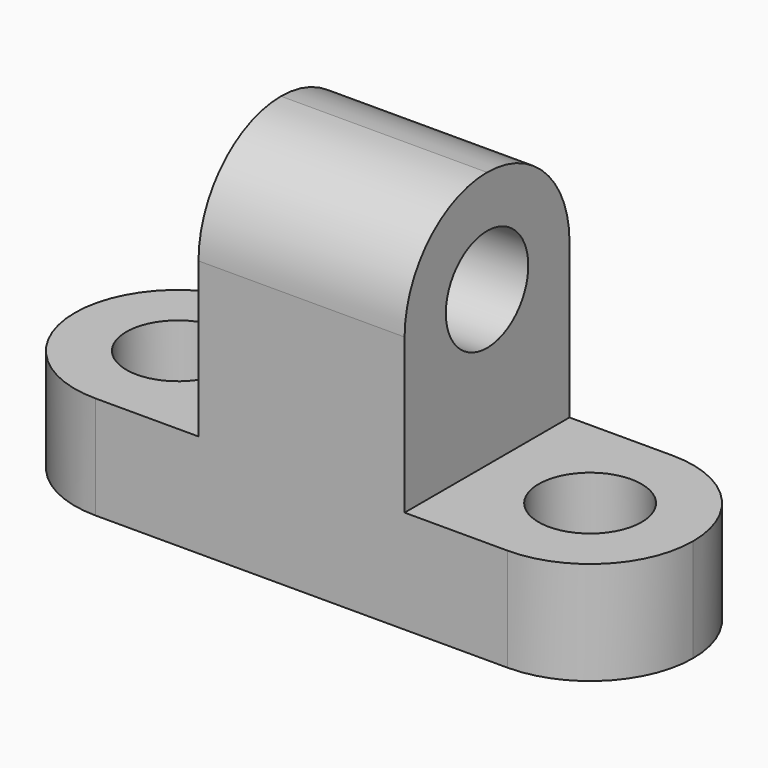
from build123d import *

# Parameters (mm, degrees)
F1_DEPTH = 25.4
F2_R     = 6.35
F3_DEPTH = 25.4
F4_R     = 6.35
F5_DEPTH = 12.701
F6_R     = 6.35
F7_DEPTH = 12.701


with BuildPart() as f1:
    # F0 (on Front) → F1 (new body)
    with BuildSketch(Plane.XZ):
        Polygon((-40.440613, 12.7), (-40.440613, 0), (35.759387, 0), (35.759387, 12.7), (10.359387, 12.7), (10.359387, 44.45), (-15.040613, 44.45), (-15.040613, 12.7), align=None)
    extrude(amount=F1_DEPTH)

    # F2 (on face) → F3 (cut)
    with BuildSketch(Plane(origin=(-15.040613, 0, 0), x_dir=(0, -1, 0), z_dir=(-1, 0, 0))):
        with BuildLine():
            ThreePointArc((12.7, 44.45), (21.680256, 40.730256), (25.4, 31.75))
            Line((25.4, 31.75), (25.4, 44.45))
            Line((25.4, 44.45), (12.7, 44.45))
        make_face()
        with BuildLine():
            ThreePointArc((0, 31.75), (3.719744, 40.730256), (12.7, 44.45))
            Line((12.7, 44.45), (0, 44.45))
            Line((0, 44.45), (0, 31.75))
        make_face()
        with Locations((12.7, 31.75)):
            Circle(F2_R)
    extrude(amount=-F3_DEPTH, mode=Mode.SUBTRACT)

    # F4 (on face) → F5 (cut, through all)
    with BuildSketch(Plane.XY.offset(12.7)):
        with Locations((-27.740613, -12.7)):
            Circle(F4_R)
        with BuildLine():
            ThreePointArc((-40.440613, -12.7), (-36.720869, -3.719744), (-27.740613, 0))
            Line((-27.740613, 0), (-40.440613, 0))
            Line((-40.440613, 0), (-40.440613, -12.7))
        make_face()
        with BuildLine():
            ThreePointArc((-27.740613, -25.4), (-36.720869, -21.680256), (-40.440613, -12.7))
            Line((-40.440613, -12.7), (-40.440613, -25.4))
            Line((-40.440613, -25.4), (-27.740613, -25.4))
        make_face()
    extrude(amount=-F5_DEPTH, mode=Mode.SUBTRACT)

    # F6 (on face) → F7 (cut, through all)
    with BuildSketch(Plane.XY.offset(12.7)):
        with BuildLine():
            ThreePointArc((23.059387, 0), (32.039644, -3.719744), (35.759387, -12.7))
            Line((35.759387, -12.7), (35.759387, 0))
            Line((35.759387, 0), (23.059387, 0))
        make_face()
        with BuildLine():
            ThreePointArc((35.759387, -12.7), (32.039644, -21.680256), (23.059387, -25.4))
            Line((23.059387, -25.4), (35.759387, -25.4))
            Line((35.759387, -25.4), (35.759387, -12.7))
        make_face()
        with Locations((23.059387, -12.7)):
            Circle(F6_R)
    extrude(amount=-F7_DEPTH, mode=Mode.SUBTRACT)


solid = f1.part
